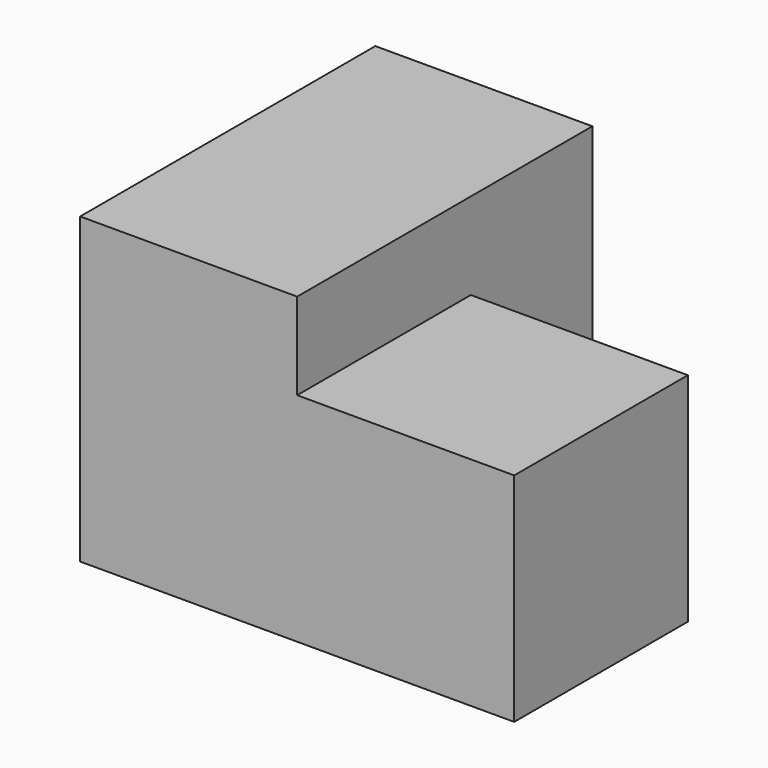
from build123d import *

# Parameters (mm, degrees)
BOX_W        = 10
BOX_H        = 17
BOX_DEPTH    = 14
BOX001_W     = 10
BOX001_H     = 10
BOX001_DEPTH = 10


with BuildPart() as box:
    # Box → Box (new body)
    with BuildSketch(Plane.XY):
        with Locations((5, 8.5)):
            Rectangle(BOX_W, BOX_H)
    extrude(amount=BOX_DEPTH)


with BuildPart() as fusion:
    # Box001 → Box001 (new body)
    with BuildSketch(Plane(origin=(10, 0, 0), x_dir=(1, 0, 0), z_dir=(0, 0, 1))):
        with Locations((5, 5)):
            Rectangle(BOX001_W, BOX001_H)
    extrude(amount=BOX001_DEPTH)

    # Fusion: union Box
    add(box.part)


solid = fusion.part
